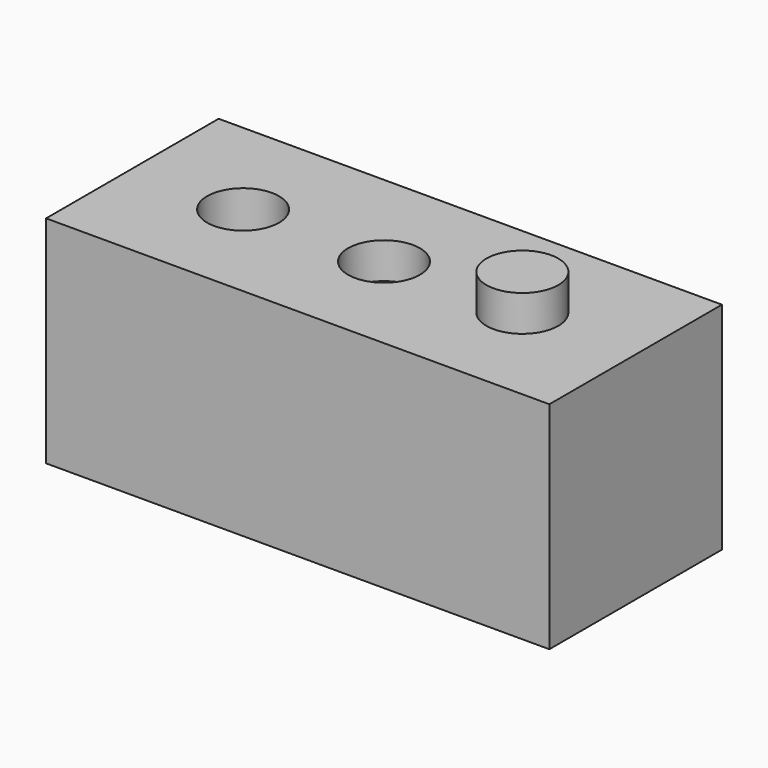
from build123d import *

# Parameters (mm, degrees)
F0_W     = 140
F0_H     = 60
F1_DEPTH = 60
F2_R     = 10
F3_DEPTH = 10
F5_R     = 10
F6_DEPTH = 77.4
F7_R     = 10
F8_DEPTH = 10


with BuildPart() as f1:
    # F0 (on Top) → F1 (new body)
    with BuildSketch(Plane.XY):
        Rectangle(F0_W, F0_H)
    extrude(amount=F1_DEPTH)

    # F2 (on face) → F3 (cut)
    with BuildSketch(Plane.XY.offset(60)):
        Circle(F2_R)
    extrude(amount=-F3_DEPTH, mode=Mode.SUBTRACT)

    # F5 (on face) → F6 (cut)
    with BuildSketch(Plane.XY.offset(60)):
        with Locations((-39.198314, 0)):
            Circle(F5_R)
    extrude(amount=-F6_DEPTH, mode=Mode.SUBTRACT)

    # F7 (on face) → F8 (join)
    with BuildSketch(Plane.XY.offset(60)):
        with Locations((38.486613, 0)):
            Circle(F7_R)
    extrude(amount=F8_DEPTH)


solid = f1.part
